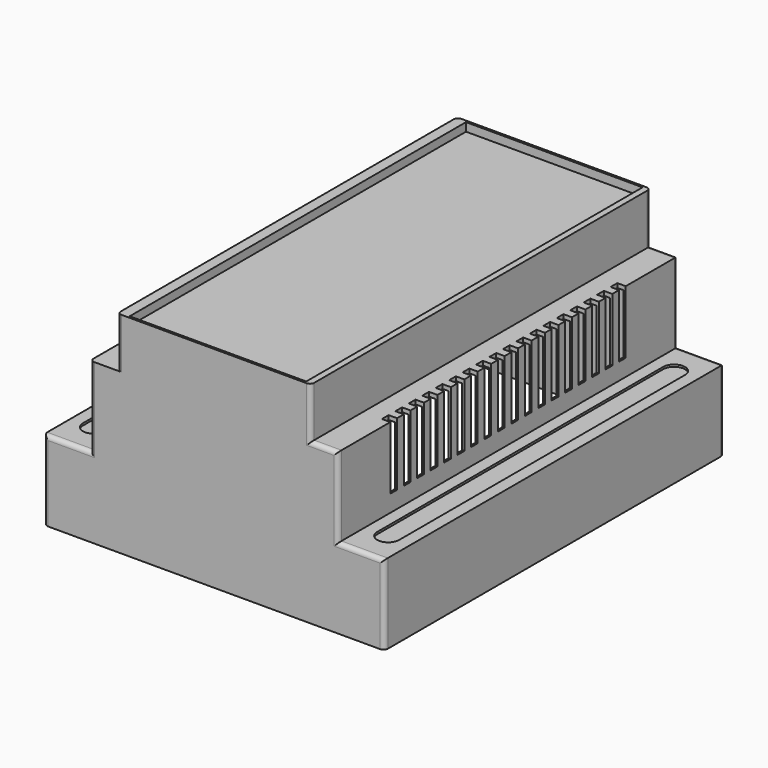
from build123d import *

# Parameters (mm, degrees)
PAD_DEPTH       = 101
SKETCH001_W     = 42
SKETCH001_H     = 100
POCKET_DEPTH    = 2
SKETCH002_W     = 15
SKETCH002_H     = 2
POCKET001_DEPTH = 2
SKETCH003_W     = 79
SKETCH003_H     = 100
POCKET002_DEPTH = 18
SKETCH004_W     = 58
SKETCH004_H     = 100
POCKET003_DEPTH = 19
SKETCH006_W     = 45
SKETCH006_H     = 100
POCKET004_DEPTH = 10
SKETCH007_W     = 15
SKETCH007_H     = 2
POCKET005_DEPTH = 5
POCKET006_DEPTH = 0.5
FILLET_R        = 1
FILLET001_R     = 1
FILLET002_R     = 1
FILLET003_R     = 1
FILLET004_R     = 1
FILLET005_R     = 1


with BuildPart() as part:
    # Sketch → Pad (new body)
    with BuildSketch(Plane.XZ):
        Polygon((0, 0), (0, 19), (11, 19), (11, 38), (17.5, 38), (17.5, 50), (63.5, 50), (63.5, 38), (70, 38), (70, 19), (81, 19), (81, 0), align=None)
    extrude(amount=PAD_DEPTH)

    # Sketch001 (on Face6 of Pad) → Pocket (cut)
    with BuildSketch(Plane(origin=(0, 0, 50), x_dir=(-1, 0, 0), z_dir=(0, 0, 1))):
        with Locations((-41, 50.5)):
            Rectangle(SKETCH001_W, SKETCH001_H)
    extrude(amount=-POCKET_DEPTH, mode=Mode.SUBTRACT)

    # Sketch002 (on Face13 of Pocket) → Pocket001 (cut)
    with BuildSketch(Plane(origin=(70, 0, 0), x_dir=(0, 0, 1), z_dir=(1, 0, 0))):
        with Locations((30.5, 84.5)):
            Rectangle(SKETCH002_W, SKETCH002_H)
        with Locations((30.5, 80.5)):
            Rectangle(SKETCH002_W, SKETCH002_H)
        with Locations((30.5, 16.5)):
            Rectangle(SKETCH002_W, SKETCH002_H)
        with Locations((30.5, 20.5)):
            Rectangle(SKETCH002_W, SKETCH002_H)
        with Locations((30.5, 28.5)):
            Rectangle(SKETCH002_W, SKETCH002_H)
        with Locations((30.5, 32.5)):
            Rectangle(SKETCH002_W, SKETCH002_H)
        with Locations((30.5, 36.5)):
            Rectangle(SKETCH002_W, SKETCH002_H)
        with Locations((30.5, 24.5)):
            Rectangle(SKETCH002_W, SKETCH002_H)
        with Locations((30.5, 40.5)):
            Rectangle(SKETCH002_W, SKETCH002_H)
        with Locations((30.5, 44.5)):
            Rectangle(SKETCH002_W, SKETCH002_H)
        with Locations((30.5, 76.5)):
            Rectangle(SKETCH002_W, SKETCH002_H)
        with Locations((30.5, 72.5)):
            Rectangle(SKETCH002_W, SKETCH002_H)
        with Locations((30.5, 68.5)):
            Rectangle(SKETCH002_W, SKETCH002_H)
        with Locations((30.5, 64.5)):
            Rectangle(SKETCH002_W, SKETCH002_H)
        with Locations((30.5, 60.5)):
            Rectangle(SKETCH002_W, SKETCH002_H)
        with Locations((30.5, 56.5)):
            Rectangle(SKETCH002_W, SKETCH002_H)
        with Locations((30.5, 48.5)):
            Rectangle(SKETCH002_W, SKETCH002_H)
        with Locations((30.5, 52.5)):
            Rectangle(SKETCH002_W, SKETCH002_H)
    extrude(amount=-POCKET001_DEPTH, mode=Mode.SUBTRACT)

    # Sketch003 (on Face2 of Pocket001) → Pocket002 (cut)
    with BuildSketch(Plane(origin=(0, 0, 0), x_dir=(1, 0, 0), z_dir=(0, 0, -1))):
        with Locations((40.5, 50.5)):
            Rectangle(SKETCH003_W, SKETCH003_H)
    extrude(amount=-POCKET002_DEPTH, mode=Mode.SUBTRACT)

    # Sketch004 (on Face19 of Pocket002) → Pocket003 (cut)
    with BuildSketch(Plane(origin=(0, 0, 18), x_dir=(1, 0, 0), z_dir=(0, 0, -1))):
        with Locations((40.5, 50.5)):
            Rectangle(SKETCH004_W, SKETCH004_H)
    extrude(amount=-POCKET003_DEPTH, mode=Mode.SUBTRACT)

    # Sketch006 (on Face97 of Pocket003) → Pocket004 (cut)
    with BuildSketch(Plane(origin=(0, 0, 37), x_dir=(1, 0, 0), z_dir=(0, 0, -1))):
        with Locations((40.5, 50.5)):
            Rectangle(SKETCH006_W, SKETCH006_H)
    extrude(amount=-POCKET004_DEPTH, mode=Mode.SUBTRACT)

    # Sketch007 (on Face7 of Pocket001) → Pocket005 (cut)
    with BuildSketch(Plane(origin=(11, 0, 0), x_dir=(0, 0, -1), z_dir=(-1, 0, 0))):
        with Locations((-30.5, 14.5)):
            Rectangle(SKETCH007_W, SKETCH007_H)
        with Locations((-30.5, 18.5)):
            Rectangle(SKETCH007_W, SKETCH007_H)
        with Locations((-30.5, 22.5)):
            Rectangle(SKETCH007_W, SKETCH007_H)
        with Locations((-30.5, 26.5)):
            Rectangle(SKETCH007_W, SKETCH007_H)
        with Locations((-30.5, 30.5)):
            Rectangle(SKETCH007_W, SKETCH007_H)
        with Locations((-30.5, 34.5)):
            Rectangle(SKETCH007_W, SKETCH007_H)
        with Locations((-30.5, 38.5)):
            Rectangle(SKETCH007_W, SKETCH007_H)
        with Locations((-30.5, 42.5)):
            Rectangle(SKETCH007_W, SKETCH007_H)
        with Locations((-30.5, 46.5)):
            Rectangle(SKETCH007_W, SKETCH007_H)
        with Locations((-30.5, 86.5)):
            Rectangle(SKETCH007_W, SKETCH007_H)
        with Locations((-30.5, 82.5)):
            Rectangle(SKETCH007_W, SKETCH007_H)
        with Locations((-30.5, 78.5)):
            Rectangle(SKETCH007_W, SKETCH007_H)
        with Locations((-30.5, 74.5)):
            Rectangle(SKETCH007_W, SKETCH007_H)
        with Locations((-30.5, 70.5)):
            Rectangle(SKETCH007_W, SKETCH007_H)
        with Locations((-30.5, 66.5)):
            Rectangle(SKETCH007_W, SKETCH007_H)
        with Locations((-30.5, 62.5)):
            Rectangle(SKETCH007_W, SKETCH007_H)
        with Locations((-30.5, 58.5)):
            Rectangle(SKETCH007_W, SKETCH007_H)
        with Locations((-30.5, 54.5)):
            Rectangle(SKETCH007_W, SKETCH007_H)
        with Locations((-30.5, 50.5)):
            Rectangle(SKETCH007_W, SKETCH007_H)
    extrude(amount=-POCKET005_DEPTH, mode=Mode.SUBTRACT)

    # Sketch008 (on Face18 of Pocket005) → Pocket006 (cut)
    with BuildSketch(Plane(origin=(0, 0, 19), x_dir=(-1, 0, 0), z_dir=(0, 0, 1))):
        with BuildLine():
            Line((-78.1, 93), (-78.1, 8))
            ThreePointArc((-78.1, 8), (-75.5, 5.4), (-72.9, 8))
            Line((-72.9, 93), (-72.9, 8))
            ThreePointArc((-72.9, 93), (-75.5, 95.6), (-78.1, 93))
        make_face()
        with BuildLine():
            Line((-8.1, 93), (-8.1, 8))
            ThreePointArc((-8.1, 8), (-5.5, 5.4), (-2.9, 8))
            Line((-2.9, 93), (-2.9, 8))
            ThreePointArc((-2.9, 93), (-5.5, 95.6), (-8.1, 93))
        make_face()
    extrude(amount=-POCKET006_DEPTH, mode=Mode.SUBTRACT)

    # Fillet
    fillet_edges = [part.edges().sort_by_distance(p)[0] for p in [
        (17.5, -101, 44),
    ]]
    fillet(fillet_edges, radius=FILLET_R)

    # Fillet001
    fillet001_edges = [part.edges().sort_by_distance(p)[0] for p in [
        (11, -101, 28.5),
    ]]
    fillet(fillet001_edges, radius=FILLET001_R)

    # Fillet002
    fillet002_edges = [part.edges().sort_by_distance(p)[0] for p in [
        (0, -101, 9.5),
        (5.5, -101, 19),
    ]]
    fillet(fillet002_edges, radius=FILLET002_R)

    # Fillet003
    fillet003_edges = [part.edges().sort_by_distance(p)[0] for p in [
        (0, 0, 9.5),
        (11, 0, 28.5),
        (17.5, 0, 44),
        (5.5, 0, 19),
    ]]
    fillet(fillet003_edges, radius=FILLET003_R)

    # Fillet004
    fillet004_edges = [part.edges().sort_by_distance(p)[0] for p in [
        (63.5, -101, 44),
        (66.75, -101, 38),
        (70, -101, 28.5),
        (75.5, -101, 19),
        (81, -101, 9.5),
    ]]
    fillet(fillet004_edges, radius=FILLET004_R)

    # Fillet005
    fillet005_edges = [part.edges().sort_by_distance(p)[0] for p in [
        (81, 0, 9.5),
        (75.5, 0, 19),
        (70, 0, 28.5),
        (66.75, 0, 38),
        (63.5, 0, 44),
    ]]
    fillet(fillet005_edges, radius=FILLET005_R)


solid = part.part
